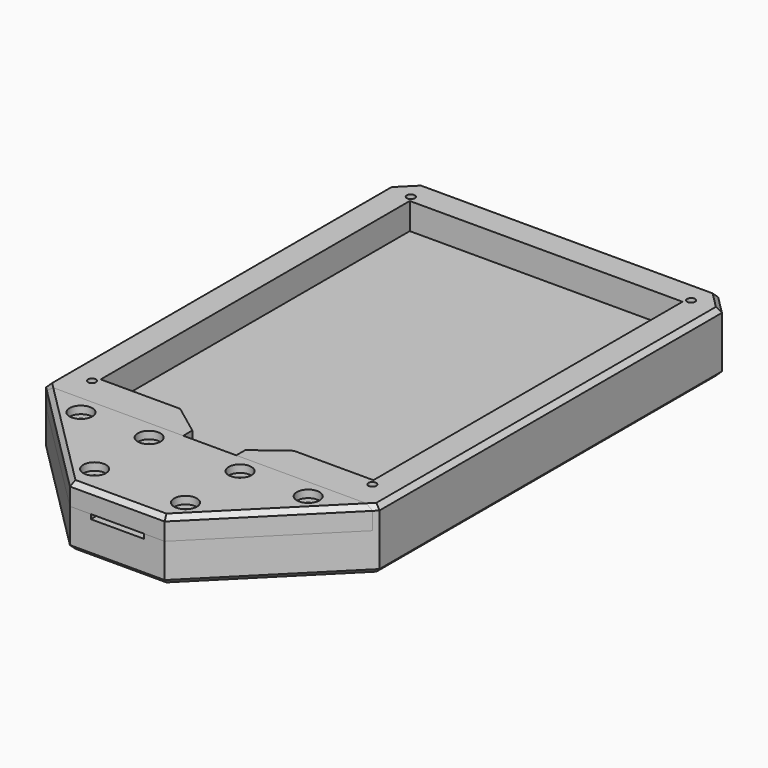
from build123d import *

# Parameters (mm, degrees)
PAD_DEPTH           = 8
POCKET_DEPTH        = 3.5
SKETCH002_W         = 54.471566
SKETCH002_H         = 20
POCKET001_DEPTH     = 2.9
SKETCH005_R         = 0.525
HOLE_DEPTH          = 25
CHAMFER_SIZE        = 2.5
CHAMFER001_SIZE     = 0.6
CHAMFER002_SIZE     = 0.6
PAD001_DEPTH        = 2.9
HOLE001_D           = 1.05
HOLE001_DEPTH       = 25
HOLE001_CBORE_D     = 3
HOLE001_CBORE_DEPTH = 1
CHAMFER003_SIZE     = 0.6


with BuildPart() as body:
    # Sketch → Pad (new body)
    with BuildSketch(Plane.XY):
        Polygon((-22, 29.5), (22, 29.5), (22, -29.5), (6.25, -45.25), (-6.25, -45.25), (-22, -29.5), align=None)
    extrude(amount=PAD_DEPTH)

    # Sketch001 (on Face8 of Pad) → Pocket (cut)
    with BuildSketch(Plane.XY.offset(8)):
        Polygon((-18, 25.5), (18, 25.5), (18, -25.5), (7.5, -25.5), (3.5, -28.5), (3.5, -60), (-3.5, -60), (-3.5, -28.5), (-7.5, -25.5), (-18, -25.5), align=None)
    extrude(amount=-POCKET_DEPTH, mode=Mode.SUBTRACT)

    # Sketch002 (on Face5 of Pocket) → Pocket001 (cut)
    with BuildSketch(Plane.XY.offset(8)):
        with Locations((0.473488, -40)):
            Rectangle(SKETCH002_W, SKETCH002_H)
    extrude(amount=-POCKET001_DEPTH, mode=Mode.SUBTRACT)

    # Sketch005 (on Face5 of Pocket001) → Hole (cut)
    with BuildSketch(Plane.XY.offset(8)):
        with Locations((-18.5, 26.3)):
            Circle(SKETCH005_R)
        with Locations((18.5, 26.3)):
            Circle(SKETCH005_R)
        with Locations((18.5, -26.3)):
            Circle(SKETCH005_R)
        with Locations((-18.5, -26.3)):
            Circle(SKETCH005_R)
        with Locations((-15, -32.5)):
            Circle(SKETCH005_R)
        with Locations((-6, -32.5)):
            Circle(SKETCH005_R)
        with Locations((6, -32.5)):
            Circle(SKETCH005_R)
        with Locations((15, -32.5)):
            Circle(SKETCH005_R)
        with Locations((6, -41.5)):
            Circle(SKETCH005_R)
        with Locations((-6, -41.5)):
            Circle(SKETCH005_R)
    extrude(amount=-HOLE_DEPTH, mode=Mode.SUBTRACT)

    # Chamfer
    chamfer_edges = [body.edges().sort_by_distance(p)[0] for p in [
        (22, 29.5, 4),
        (-22, 29.5, 4),
    ]]
    chamfer(chamfer_edges, length=CHAMFER_SIZE)

    # Chamfer001
    chamfer001_edges = [body.edges().sort_by_distance(p)[0] for p in [
        (-22, -1.25, 0),
        (-20.75, 28.25, 0),
        (-14.125, -37.375, 0),
        (0, 29.5, 0),
        (0, -45.25, 0),
        (20.75, 28.25, 0),
        (14.125, -37.375, 0),
        (22, -1.25, 0),
        (14.475, -32.5, 0),
        (17.975, -26.3, 0),
        (5.475, -41.5, 0),
        (5.475, -32.5, 0),
        (-6.525, -41.5, 0),
        (-6.525, -32.5, 0),
        (-15.525, -32.5, 0),
        (-19.025, -26.3, 0),
        (17.975, 26.3, 0),
        (-19.025, 26.3, 0),
    ]]
    chamfer(chamfer001_edges, length=CHAMFER001_SIZE)

    # Chamfer002
    chamfer002_edges = [body.edges().sort_by_distance(p)[0] for p in [
        (22, -1.25, 8),
        (21.75, -29.75, 8),
        (20.75, 28.25, 8),
        (0, 29.5, 8),
        (-20.75, 28.25, 8),
        (-22, -1.25, 8),
        (-21.75, -29.75, 8),
    ]]
    chamfer(chamfer002_edges, length=CHAMFER002_SIZE)


with BuildPart() as body001:
    # Sketch003 → Pad001 (new body)
    with BuildSketch(Plane.XY.offset(5.1)):
        Polygon((-21.5, -30), (21.5, -30), (6.25, -45.25), (-6.25, -45.25), align=None)
    extrude(amount=PAD001_DEPTH)

    # Hole001
    with Locations(Plane.XY.offset(8)):
        with Locations((-18.5, 26.3), (18.5, 26.3), (18.5, -26.3), (-18.5, -26.3), (-15, -32.5), (-6, -32.5), (6, -32.5), (15, -32.5), (6, -41.5), (-6, -41.5)):
            CounterBoreHole(HOLE001_D / 2, HOLE001_CBORE_D / 2, HOLE001_CBORE_DEPTH, depth=HOLE001_DEPTH)

    # Chamfer003
    chamfer003_edges = [body001.edges().sort_by_distance(p)[0] for p in [
        (-13.875, -37.625, 8),
        (0, -45.25, 8),
        (13.875, -37.625, 8),
    ]]
    chamfer(chamfer003_edges, length=CHAMFER003_SIZE)


solid = Compound([body.part, body001.part])
